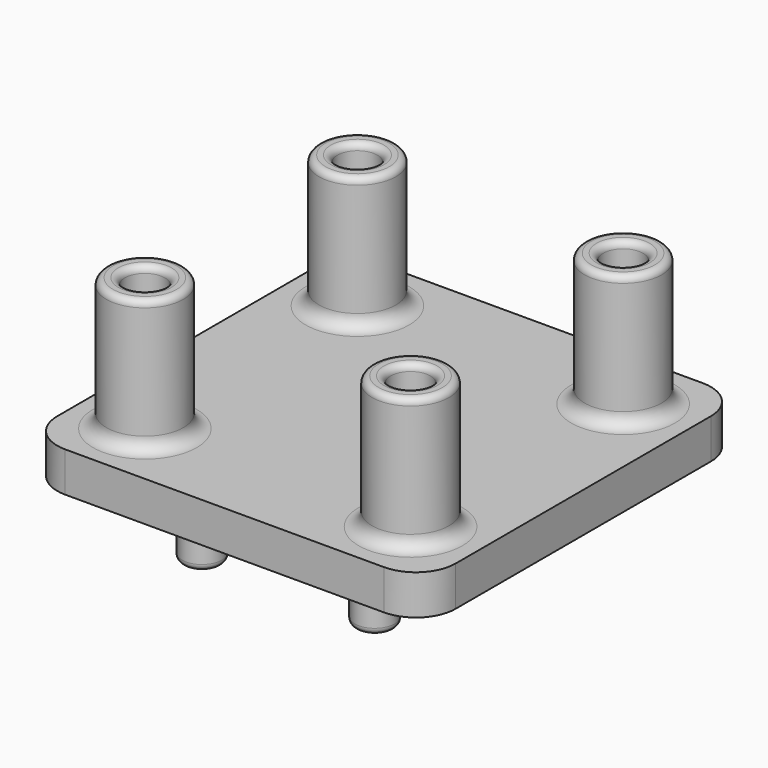
from build123d import *

# Parameters (mm, degrees)
SKETCH_W     = 30
SKETCH_H     = 30
PAD_DEPTH    = 3
SKETCH004_R  = 2.9
PAD001_DEPTH = 10
SKETCH005_R  = 1.5
PAD002_DEPTH = 5
SKETCH006_R  = 1.5
POCKET_DEPTH = 8
FILLET_R     = 0.5
FILLET001_R  = 1
FILLET002_R  = 3
FILLET003_R  = 1
FILLET004_R  = 0.5


with BuildPart() as part:
    # Sketch → Pad (new body)
    with BuildSketch(Plane.XY):
        with Locations((20, 20)):
            Rectangle(SKETCH_W, SKETCH_H)
    extrude(amount=PAD_DEPTH)

    # Sketch004 → Pad001 (new body)
    with BuildSketch(Plane.XY.offset(3)):
        with Locations((10, 10)):
            Circle(SKETCH004_R)
        with Locations((10, 30)):
            Circle(SKETCH004_R)
        with Locations((30, 10)):
            Circle(SKETCH004_R)
        with Locations((30, 30)):
            Circle(SKETCH004_R)
    extrude(amount=PAD001_DEPTH)

    # Sketch005 → Pad002 (new body)
    with BuildSketch(Plane(origin=(0, 0, 0), x_dir=(1, 0, 0), z_dir=(0, 0, -1))):
        with Locations((13.5, -11)):
            Circle(SKETCH005_R)
        with Locations((26.5, -11)):
            Circle(SKETCH005_R)
        with Locations((13.5, -29)):
            Circle(SKETCH005_R)
        with Locations((26.5, -29)):
            Circle(SKETCH005_R)
    extrude(amount=PAD002_DEPTH)

    # Sketch006 → Pocket (cut)
    with BuildSketch(Plane.XY.offset(13)):
        with Locations((10, 30)):
            Circle(SKETCH006_R)
        with Locations((30, 30)):
            Circle(SKETCH006_R)
        with Locations((10, 10)):
            Circle(SKETCH006_R)
        with Locations((30, 10)):
            Circle(SKETCH006_R)
    extrude(amount=-POCKET_DEPTH, mode=Mode.SUBTRACT)

    # Fillet
    fillet_edges = [part.edges().sort_by_distance(p)[0] for p in [
        (7.1, 30, 13),
        (8.5, 30, 13),
        (27.1, 30, 13),
        (28.5, 30, 13),
        (27.1, 10, 13),
        (28.5, 10, 13),
        (7.1, 10, 13),
        (8.5, 10, 13),
    ]]
    fillet(fillet_edges, radius=FILLET_R)

    # Fillet001
    fillet001_edges = [part.edges().sort_by_distance(p)[0] for p in [
        (7.1, 30, 3),
        (27.1, 30, 3),
        (27.1, 10, 3),
        (7.1, 10, 3),
    ]]
    fillet(fillet001_edges, radius=FILLET001_R)

    # Fillet002
    fillet002_edges = [part.edges().sort_by_distance(p)[0] for p in [
        (5, 35, 1.5),
        (35, 35, 1.5),
        (35, 5, 1.5),
        (5, 5, 1.5),
    ]]
    fillet(fillet002_edges, radius=FILLET002_R)

    # Fillet003
    fillet003_edges = [part.edges().sort_by_distance(p)[0] for p in [
        (12, 29, 0),
        (25, 29, 0),
        (25, 11, 0),
        (12, 11, 0),
    ]]
    fillet(fillet003_edges, radius=FILLET003_R)

    # Fillet004
    fillet004_edges = [part.edges().sort_by_distance(p)[0] for p in [
        (12, 29, -5),
        (25, 29, -5),
        (25, 11, -5),
        (12, 11, -5),
    ]]
    fillet(fillet004_edges, radius=FILLET004_R)


solid = part.part
